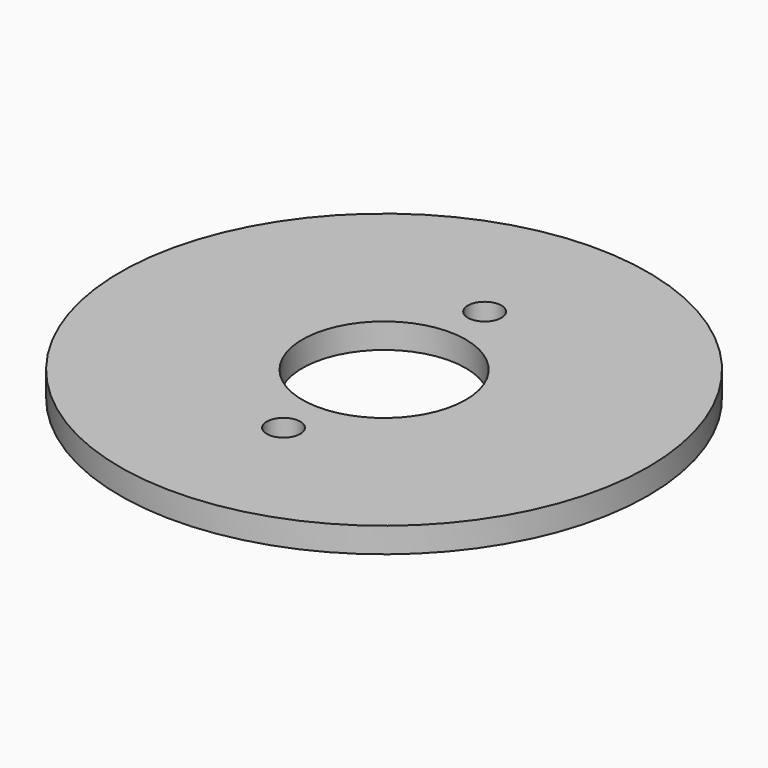
from build123d import *

# Parameters (mm, degrees)
CYLINDER012_R               = 2
CYLINDER012_DEPTH           = 15
CYLINDER012_PLACEMENT_ANGLE = 1
CYLINDER013_R               = 2
CYLINDER013_DEPTH           = 15
CYLINDER006_R               = 9.75
CYLINDER006_DEPTH           = 6
CYLINDER004_R               = 31.5
CYLINDER004_DEPTH           = 3


with BuildPart() as cylinder012:
    # Cylinder012 → Cylinder012 (new body)
    with BuildSketch(Plane.XY):
        Circle(CYLINDER012_R)
    extrude(amount=CYLINDER012_DEPTH)


with BuildPart() as cylinder012_1:
    # Cylinder012 placement: moved
    add(cylinder012.part.moved(Location((0, -15, -1))).rotate(Axis((0, -15, -1), (0, 0, 1)), CYLINDER012_PLACEMENT_ANGLE))


with BuildPart() as fusion004:
    # Cylinder013 → Cylinder013 (new body)
    with BuildSketch(Plane(origin=(0, 15, -1), x_dir=(1, 0, 0), z_dir=(0, 0, 1))):
        Circle(CYLINDER013_R)
    extrude(amount=CYLINDER013_DEPTH)

    # Fusion004: union Cylinder012
    add(cylinder012_1.part)


with BuildPart() as cylinder006:
    # Cylinder006 → Cylinder006 (new body)
    with BuildSketch(Plane.XY):
        Circle(CYLINDER006_R)
    extrude(amount=CYLINDER006_DEPTH)


with BuildPart() as end_flange001:
    # Cylinder004 → Cylinder004 (new body)
    with BuildSketch(Plane.XY):
        Circle(CYLINDER004_R)
    extrude(amount=CYLINDER004_DEPTH)

    # Cut001: cut Cylinder006
    add(cylinder006.part, mode=Mode.SUBTRACT)

    # Cut009: cut Fusion004
    add(fusion004.part, mode=Mode.SUBTRACT)


with BuildPart() as end_flange001_1:
    # Cut009 placement: moved
    add(end_flange001.part.moved(Location((65, 0, 0))))


solid = end_flange001_1.part
